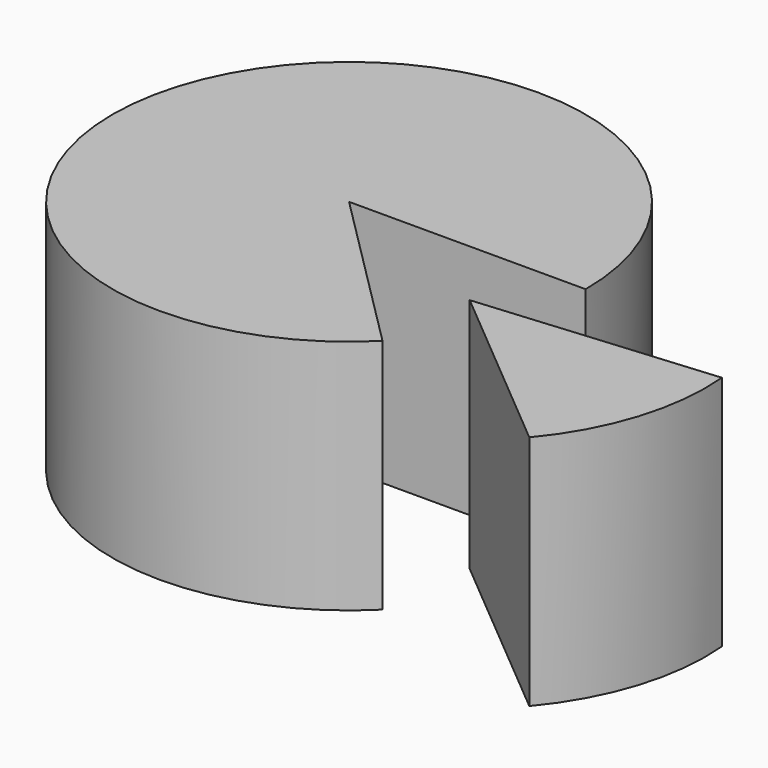
from build123d import *

# Parameters (mm, degrees)
CYLINDER_W                  = 20
CYLINDER_H                  = 20
CYLINDER_ANGLE              = 315
CYLINDER001_W               = 20
CYLINDER001_H               = 20
CYLINDER001_ANGLE           = 45
CYLINDER001_PLACEMENT_ANGLE = 320


with BuildPart() as cilindre:
    # Cylinder → Cylinder (revolve)
    with BuildSketch(Plane.XZ):
        with Locations((10, 10)):
            Rectangle(CYLINDER_W, CYLINDER_H)
    revolve(axis=Axis((0, 0, 0), (0, 0, 1)), revolution_arc=CYLINDER_ANGLE)


with BuildPart() as cilindre001:
    # Cylinder001 → Cylinder001 (revolve)
    with BuildSketch(Plane.XZ):
        with Locations((10, 10)):
            Rectangle(CYLINDER001_W, CYLINDER001_H)
    revolve(axis=Axis((0, 0, 0), (0, 0, 1)), revolution_arc=CYLINDER001_ANGLE)


with BuildPart() as cilindre001_1:
    # Cylinder001 placement: moved
    add(cilindre001.part.moved(Location((15, -6, 0))).rotate(Axis((15, -6, 0), (0, 0, 1)), CYLINDER001_PLACEMENT_ANGLE))


solid = Compound([cilindre.part, cilindre001_1.part])
